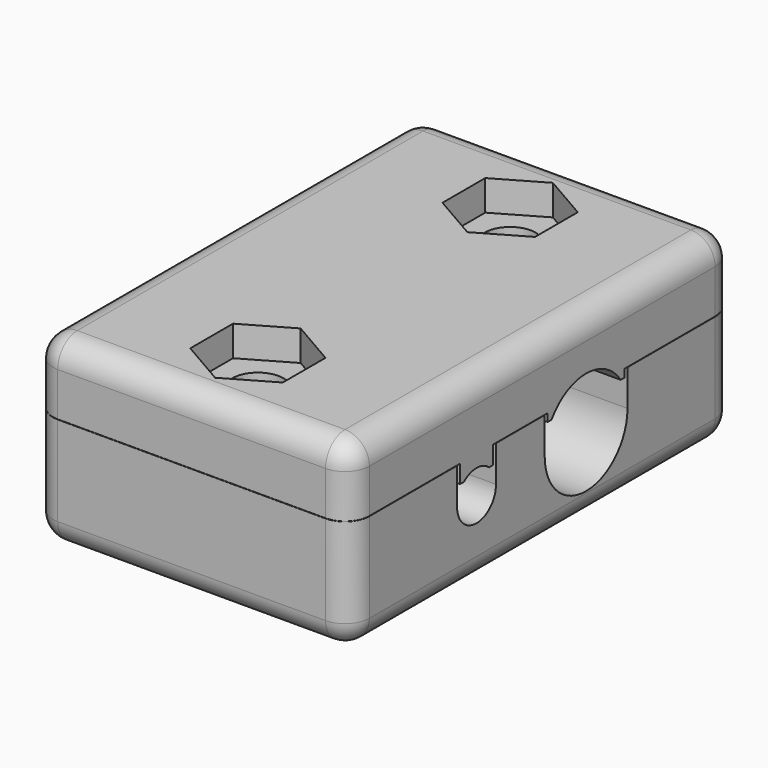
from build123d import *

# Parameters (mm, degrees)
F1_DEPTH = 33.02
F2_R     = 2.667
F3_DEPTH = 25.4
F5_DEPTH = 3.175
F6_R     = 2.54
F6_2_R   = 2.54


with BuildPart() as f1:
    # F0 (on Right) → F1 (new body)
    with BuildSketch(Plane.YZ):
        with BuildLine():
            Line((19.3675, 10.922), (0, 10.922))
            Line((0, 10.922), (-30.7975, 10.922))
            Line((-30.7975, 10.922), (-30.7975, 3.81))
            Line((-30.7975, 3.81), (-16.4465, 3.81))
            Line((-16.4465, 3.81), (-16.4465, 1.9302328875))
            Line((-16.4465, 1.9302328875), (-15.9385, 1.9302328875))
            ThreePointArc((-15.9385, 1.9302328875), (-14.2875, 2.54), (-12.6365, 1.9302328875))
            Line((-12.6365, 1.9302328875), (-12.1285, 1.9302328875))
            Line((-12.1285, 1.9302328875), (-12.1285, 3.81))
            Line((-12.1285, 3.81), (-5.0165, 3.81))
            Line((-5.0165, 3.81), (-5.0165, 2.9906005735))
            Line((-5.0165, 2.9906005735), (-4.5085, 2.9906005735))
            ThreePointArc((-4.5085, 2.9906005735), (0, 5.4102), (4.5085, 2.9906005735))
            Line((4.5085, 2.9906005735), (5.0165, 2.9906005735))
            Line((5.0165, 2.9906005735), (5.0165, 3.81))
            Line((5.0165, 3.81), (19.3675, 3.81))
            Line((19.3675, 3.81), (19.3675, 10.922))
        make_face()
    extrude(amount=F1_DEPTH)


with BuildPart() as f1b:
    # F0 (on Right) → F1, piece 2 (new body)
    with BuildSketch(Plane.YZ):
        with BuildLine():
            Line((-30.7975, 3.7846), (-30.7975, -8.128))
            Line((-30.7975, -8.128), (0, -8.128))
            Line((0, -8.128), (19.3675, -8.128))
            Line((19.3675, -8.128), (19.3675, 3.7846))
            Line((19.3675, 3.7846), (5.3975, 3.7846))
            Line((5.3975, 3.7846), (5.3975, 0))
            ThreePointArc((5.3975, 0), (0, -5.3975), (-5.3975, 0))
            Line((-5.3975, 0), (-5.3975, 3.7846))
            Line((-5.3975, 3.7846), (-11.7475, 3.7846))
            Line((-11.7475, 3.7846), (-11.7475, 0))
            ThreePointArc((-11.7475, 0), (-14.2875, -2.54), (-16.8275, 0))
            Line((-16.8275, 0), (-16.8275, 3.7846))
            Line((-16.8275, 3.7846), (-30.7975, 3.7846))
        make_face()
    extrude(amount=F1_DEPTH)


with BuildPart() as f3_tool:
    # F2 (on face) → F3 (new body)
    with BuildSketch(Plane.XY.offset(10.922)):
        with Locations((16.51, -22.1615)):
            Circle(F2_R)
        with Locations((16.51, 10.7315)):
            Circle(F2_R)
    extrude(amount=-F3_DEPTH)


with BuildPart() as f1_1:
    add(f1.part)

    # F3: cut by f3_tool
    add(f3_tool.part, mode=Mode.SUBTRACT)

    # F4 (on face) → F5 (cut)
    with BuildSketch(Plane.XY.offset(10.922)):
        Polygon((21.336, -24.9477923991), (21.336, -19.3752076009), (16.51, -16.5889152018), (11.684, -19.3752076009), (11.684, -24.9477923991), (16.51, -27.7340847982), align=None)
        Polygon((21.336, 13.5177923991), (16.51, 16.3040847982), (11.684, 13.5177923991), (11.684, 7.9452076009), (16.51, 5.1589152018), (21.336, 7.9452076009), align=None)
    extrude(amount=-F5_DEPTH, mode=Mode.SUBTRACT)

    # F6#2
    f6_2_edges = [f1_1.edges().sort_by_distance(p)[0] for p in [
        (16.51, 19.3675, 10.922),
        (0, -5.715, 10.922),
        (16.51, -30.7975, 10.922),
        (33.02, -5.715, 10.922),
        (33.02, 19.3675, 7.366),
        (0, 19.3675, 7.366),
        (0, -30.7975, 7.366),
        (33.02, -30.7975, 7.366),
    ]]
    fillet(f6_2_edges, radius=F6_2_R)


with BuildPart() as f1b_1:
    add(f1b.part)

    # F3: cut by f3_tool
    add(f3_tool.part, mode=Mode.SUBTRACT)

    # F6
    f6_edges = [f1b_1.edges().sort_by_distance(p)[0] for p in [
        (16.51, 19.3675, -8.128),
        (0, -5.715, -8.128),
        (16.51, -30.7975, -8.128),
        (33.02, -30.7975, -2.1717),
        (0, -30.7975, -2.1717),
        (33.02, 19.3675, -2.1717),
        (0, 19.3675, -2.1717),
        (33.02, -5.715, -8.128),
    ]]
    fillet(f6_edges, radius=F6_R)


solid = Compound([f1_1.part, f1b_1.part])
